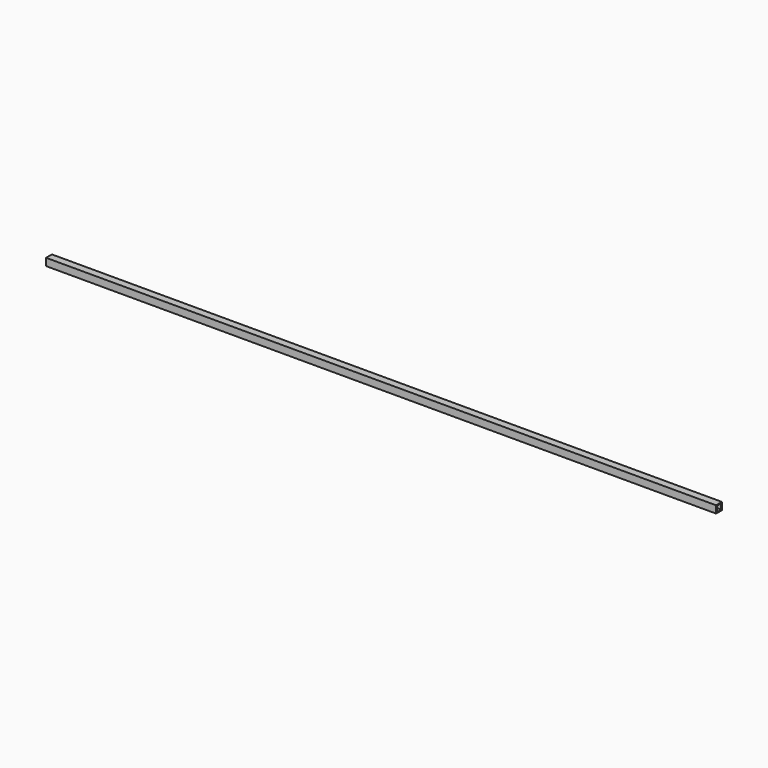
from build123d import *

# Parameters (mm, degrees)
F0_W     = 25.4
F0_H     = 25.4
F0_W_2   = 19.05
F0_H_2   = 19.05
F1_DEPTH = 2324.1


with BuildPart() as f1:
    # F0 (on Right) → F1 (new body)
    with BuildSketch(Plane.YZ):
        with Locations((12.7, 12.7)):
            Rectangle(F0_W, F0_H)
        with Locations((12.7, 12.7)):
            Rectangle(F0_W_2, F0_H_2, mode=Mode.SUBTRACT)
    extrude(amount=-F1_DEPTH)


solid = f1.part
